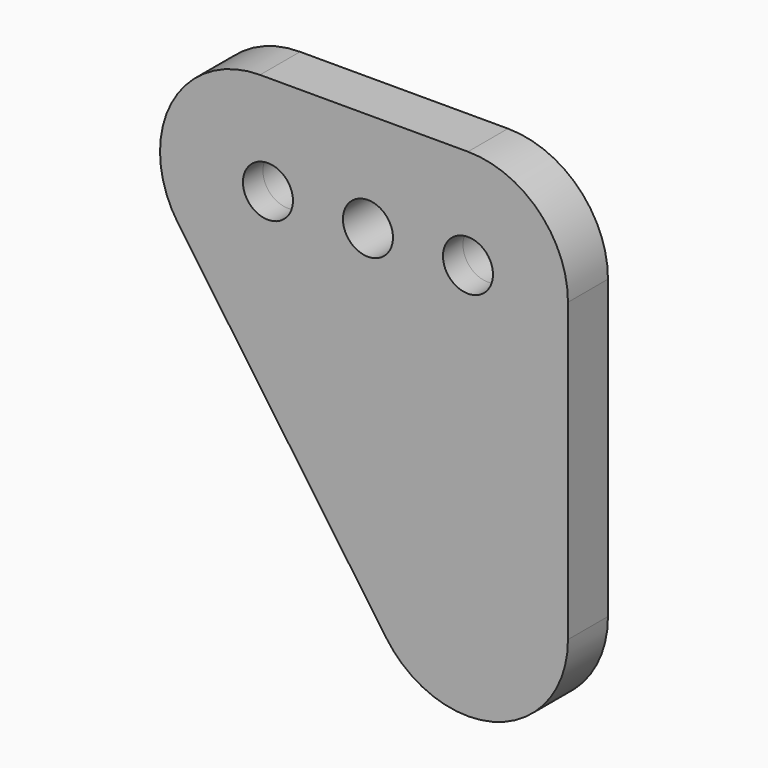
from build123d import *

# Parameters (mm, degrees)
F0_R     = 6.35
F1_DEPTH = 6.35
F2_R     = 25.4


with BuildPart() as f1:
    # F0 (on Front) → F1 (new body, symmetric)
    with BuildSketch(Plane.XZ):
        Polygon((0, 0), (-127, 0), (0, -181.374797), align=None)
        with Locations((-76.2, -25.4)):
            Circle(F0_R, mode=Mode.SUBTRACT)
        with BuildLine():
            ThreePointArc((-57.15, -25.4), (-50.8, -19.05), (-44.45, -25.4))
            ThreePointArc((-44.45, -25.4), (-50.8, -31.75), (-57.15, -25.4))
        make_face(mode=Mode.SUBTRACT)
        with BuildLine():
            ThreePointArc((-31.75, -25.4), (-25.4, -19.05), (-19.05, -25.4))
            ThreePointArc((-19.05, -25.4), (-25.4, -31.75), (-31.75, -25.4))
        make_face(mode=Mode.SUBTRACT)
    extrude(amount=F1_DEPTH, both=True)

    # F2
    f2_edges = [f1.edges().sort_by_distance(p)[0] for p in [
        (0, 0, 0),
        (-127, 0, 0),
        (0, 0, -181.374797),
    ]]
    fillet(f2_edges, radius=F2_R)


solid = f1.part
